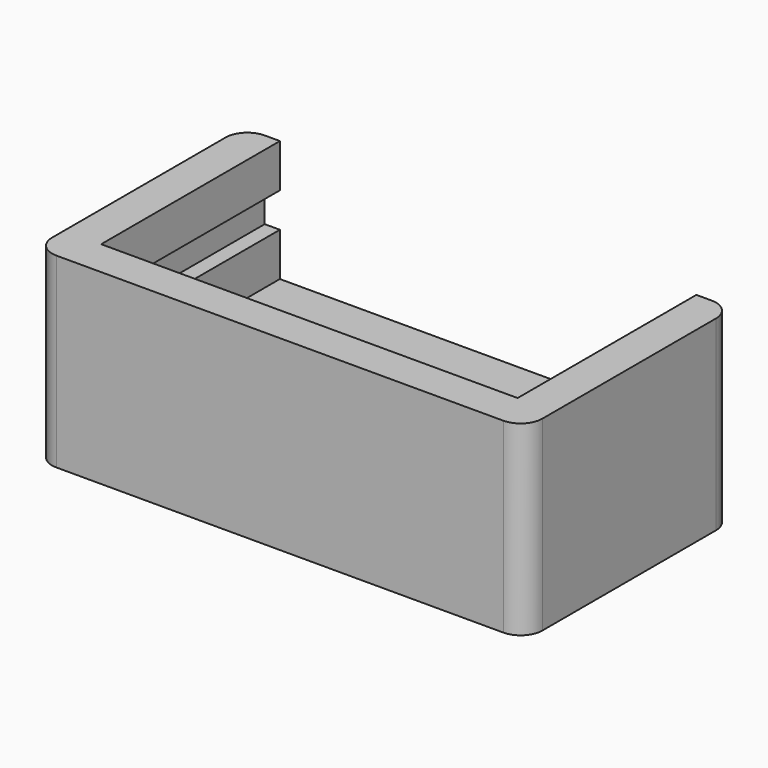
from build123d import *

# Parameters (mm, degrees)
BOX007_W     = 20.6
BOX007_H     = 11
BOX007_DEPTH = 1.6
BOX006_W     = 19.2
BOX006_H     = 10.6
BOX006_DEPTH = 5.6
BOX_W        = 22.6
BOX_H        = 12
BOX_DEPTH    = 8.6
FILLET_R     = 1


with BuildPart() as pcb_extract_cube:
    # Box007 → Box007 (new body)
    with BuildSketch(Plane(origin=(1, 1, 5), x_dir=(1, 0, 0), z_dir=(0, 0, 1))):
        with Locations((10.3, 5.5)):
            Rectangle(BOX007_W, BOX007_H)
    extrude(amount=BOX007_DEPTH)


with BuildPart() as extract_fusion:
    # Box006 → Box006 (new body)
    with BuildSketch(Plane(origin=(1.7, 1.7, 3), x_dir=(1, 0, 0), z_dir=(0, 0, 1))):
        with Locations((9.6, 5.3)):
            Rectangle(BOX006_W, BOX006_H)
    extrude(amount=BOX006_DEPTH)

    # Fusion: union pcb extract cube
    add(pcb_extract_cube.part)


with BuildPart() as obj1:
    # Box → Box (new body)
    with BuildSketch(Plane.XY):
        with Locations((11.3, 6)):
            Rectangle(BOX_W, BOX_H)
    extrude(amount=BOX_DEPTH)

    # Fillet
    fillet_edges = [obj1.edges().sort_by_distance(p)[0] for p in [
        (0, 0, 4.3),
        (0, 12, 4.3),
        (22.6, 0, 4.3),
        (22.6, 12, 4.3),
    ]]
    fillet(fillet_edges, radius=FILLET_R)

    # Cut003006: cut extract fusion
    add(extract_fusion.part, mode=Mode.SUBTRACT)


solid = obj1.part
